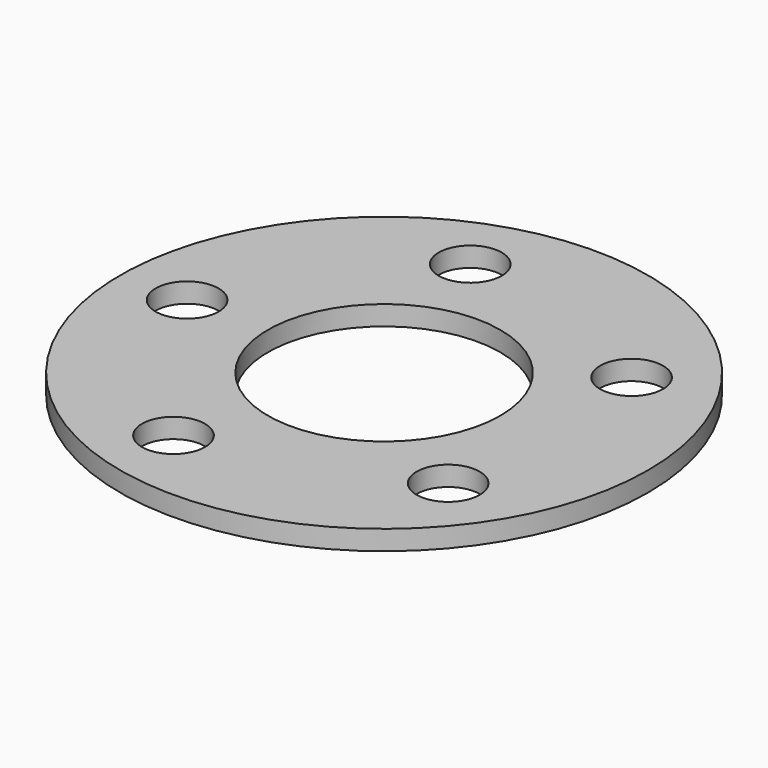
from build123d import *

# Parameters (mm, degrees)
F0_R     = 67
F0_R_2   = 8
F0_R_3   = 29.5
F1_DEPTH = 5


with BuildPart() as f1:
    # F0 (on Top) → F1 (new body)
    with BuildSketch(Plane.XY):
        Circle(F0_R)
        with Locations((-15.796341, -47.077298)):
            Circle(F0_R_2, mode=Mode.SUBTRACT)
        with Locations((39.546341, -29.09537)):
            Circle(F0_R_2, mode=Mode.SUBTRACT)
        with Locations((-50, 0)):
            Circle(F0_R_2, mode=Mode.SUBTRACT)
        with Locations((-15.796341, 47.077298)):
            Circle(F0_R_2, mode=Mode.SUBTRACT)
        Circle(F0_R_3, mode=Mode.SUBTRACT)
        with Locations((39.546341, 29.09537)):
            Circle(F0_R_2, mode=Mode.SUBTRACT)
    extrude(amount=F1_DEPTH)


solid = f1.part
